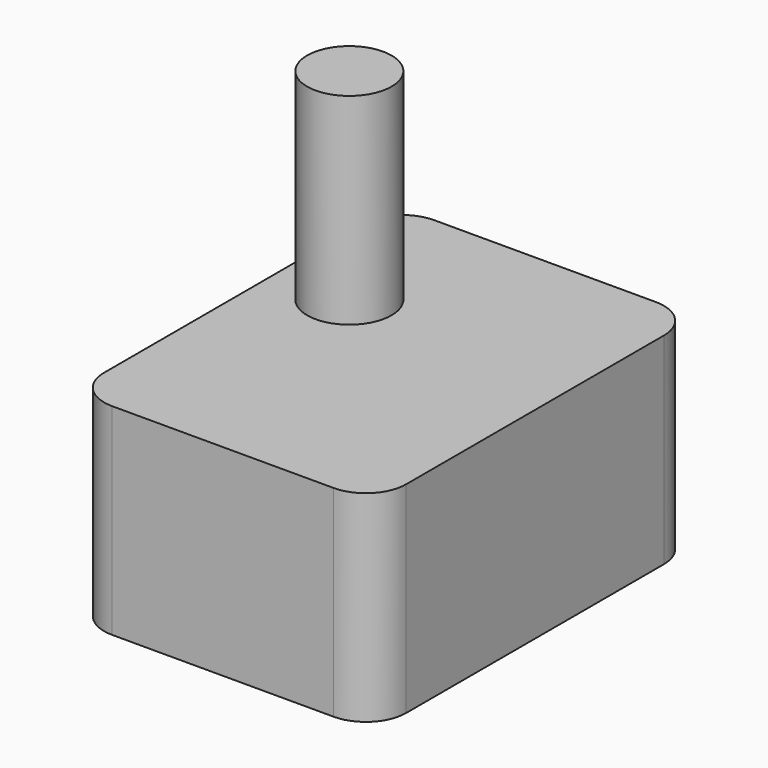
from build123d import *

# Parameters (mm, degrees)
F0_W     = 38.1
F0_H     = 50.8
F1_DEPTH = 25.4
F2_R     = 5.321042
F3_DEPTH = 25.4
F4_R     = 5.08


with BuildPart() as f1:
    # F0 (on Top) → F1 (new body)
    with BuildSketch(Plane.XY):
        Rectangle(F0_W, F0_H)
    extrude(amount=F1_DEPTH)

    # F2 (on face) → F3 (join)
    with BuildSketch(Plane.XY.offset(25.4)):
        with Locations((-9.905285, 6.918165)):
            Circle(F2_R)
    extrude(amount=F3_DEPTH)

    # F4
    f4_edges = [f1.edges().sort_by_distance(p)[0] for p in [
        (-19.05, -25.4, 12.7),
        (19.05, -25.4, 12.7),
        (-19.05, 25.4, 12.7),
        (19.05, 25.4, 12.7),
    ]]
    fillet(f4_edges, radius=F4_R)


solid = f1.part
